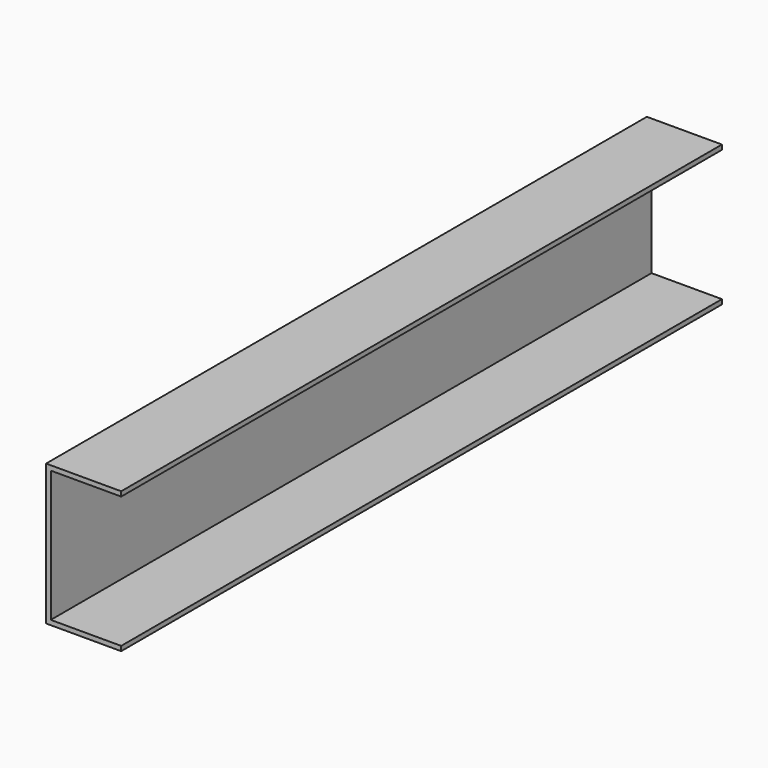
from build123d import *

# Parameters (mm, degrees)
PAD_DEPTH = 800


with BuildPart() as part:
    # Sketch001 → Pad (new body)
    with BuildSketch(Plane.XZ):
        Polygon((34.902645, 82.659922), (-45.097355, 82.659922), (-45.097355, -67.340078), (34.902645, -67.340078), (34.902645, -62.340078), (-40.097355, -62.340078), (-40.097355, 77.659922), (34.902645, 77.659922), align=None)
    extrude(amount=PAD_DEPTH)


solid = part.part
